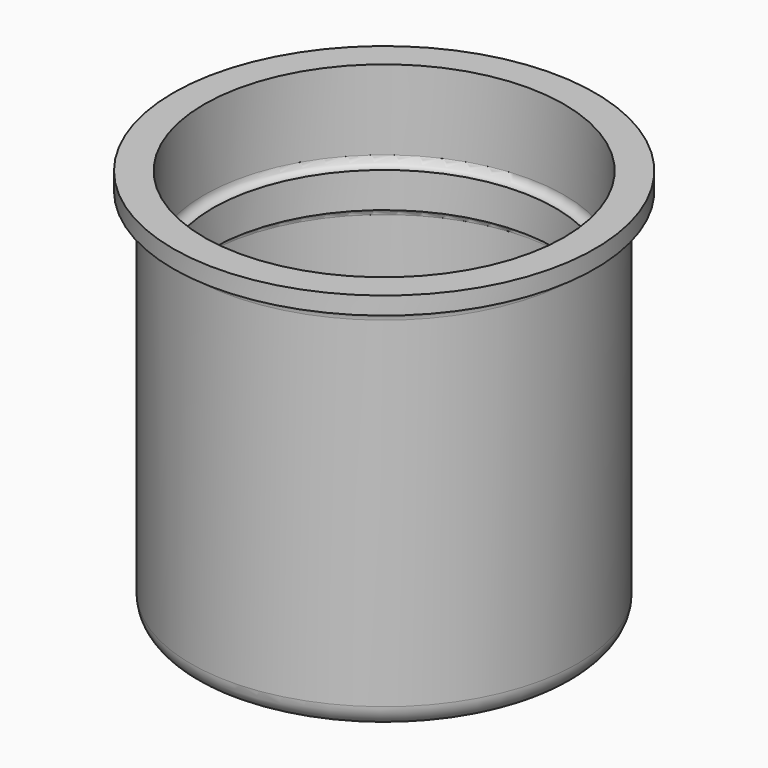
from build123d import *


with BuildPart() as part:
    # Sketch → Revolution (revolve)
    with BuildSketch(Plane.XZ):
        with BuildLine():
            Line((0, 0), (-7.75, 0))
            ThreePointArc((-8.75, 1), (-8.457107, 0.292893), (-7.75, 0))
            Line((-8.75, 1), (-8.75, 16.4))
            ThreePointArc((-8.75, 16.4), (-8.925736, 16.824264), (-9.35, 17))
            Line((-9.35, 17), (-9.55, 17))
            Line((-9.55, 17), (-9.55, 17.8))
            Line((-9.55, 17.8), (-8.15, 17.8))
            Line((-8.15, 17.8), (-8.15, 14.19))
            ThreePointArc((-8.15, 14.19), (-8.035772, 13.914228), (-7.76, 13.8))
            Line((-7.76, 13.8), (-7.75, 13.8))
            Line((-7.75, 13.8), (-7.75, 12.2))
            Line((-7.75, 12.2), (-7.76, 12.2))
            ThreePointArc((-7.76, 12.2), (-8.035772, 12.085772), (-8.15, 11.81))
            Line((-8.15, 11.81), (-8.15, 1.6))
            ThreePointArc((-8.15, 1.6), (-7.857107, 0.892893), (-7.15, 0.6))
            Line((-7.15, 0.6), (0, 0.6))
            Line((0, 0.6), (0, 0))
        make_face()
    revolve(axis=Axis((0, 0, 0), (0, 0, 1)))


solid = part.part
